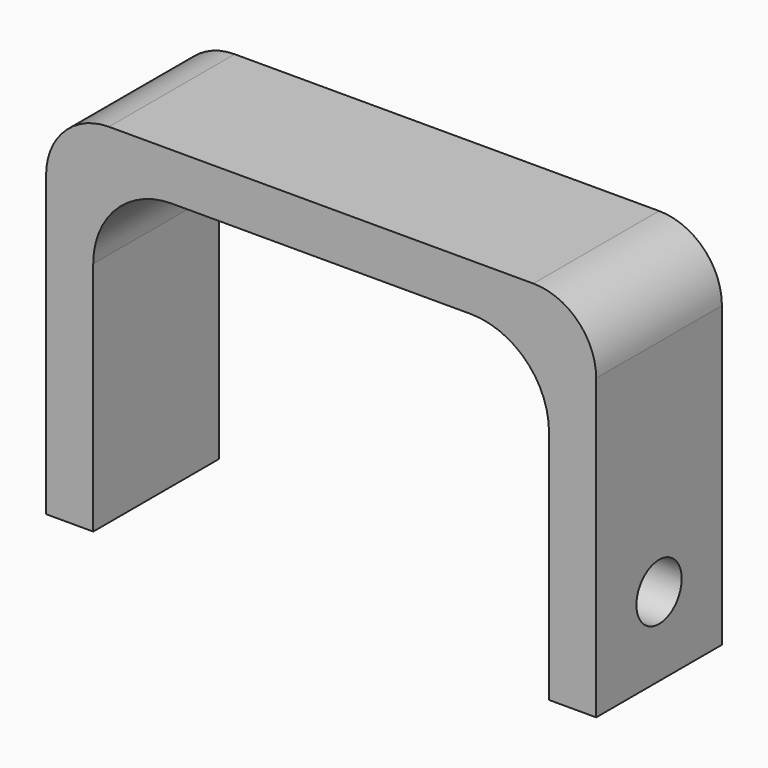
from build123d import *

# Parameters (mm, degrees)
CYLINDER001_R     = 1.8
CYLINDER001_DEPTH = 40
PAD001_DEPTH      = 10


with BuildPart() as hole001:
    # Cylinder001 → Cylinder001 (new body)
    with BuildSketch(Plane(origin=(-4, -5, 5), x_dir=(0, 0, -1), z_dir=(1, 0, 0))):
        Circle(CYLINDER001_R)
    extrude(amount=CYLINDER001_DEPTH)


with BuildPart() as cut001:
    # Sketch001 → Pad001 (new body)
    with BuildSketch(Plane.XZ):
        with BuildLine():
            Line((-14.5, 0), (-14.5, 15))
            ThreePointArc((-9.5, 20), (-13.035534, 18.535534), (-14.5, 15))
            Line((-9.5, 20), (9.5, 20))
            ThreePointArc((14.5, 15), (13.035534, 18.535534), (9.5, 20))
            Line((14.5, 15), (14.5, 0))
            Line((17.5, 0), (14.5, 0))
            Line((17.5, 19), (17.5, 0))
            ThreePointArc((17.5, 19), (16.328427, 21.828427), (13.5, 23))
            Line((-13.5, 23), (13.5, 23))
            ThreePointArc((-13.5, 23), (-16.328427, 21.828427), (-17.5, 19))
            Line((-17.5, 0), (-17.5, 19))
            Line((-14.5, 0), (-17.5, 0))
        make_face()
    extrude(amount=PAD001_DEPTH)

    # Cut001: cut hole001
    add(hole001.part, mode=Mode.SUBTRACT)


solid = cut001.part
